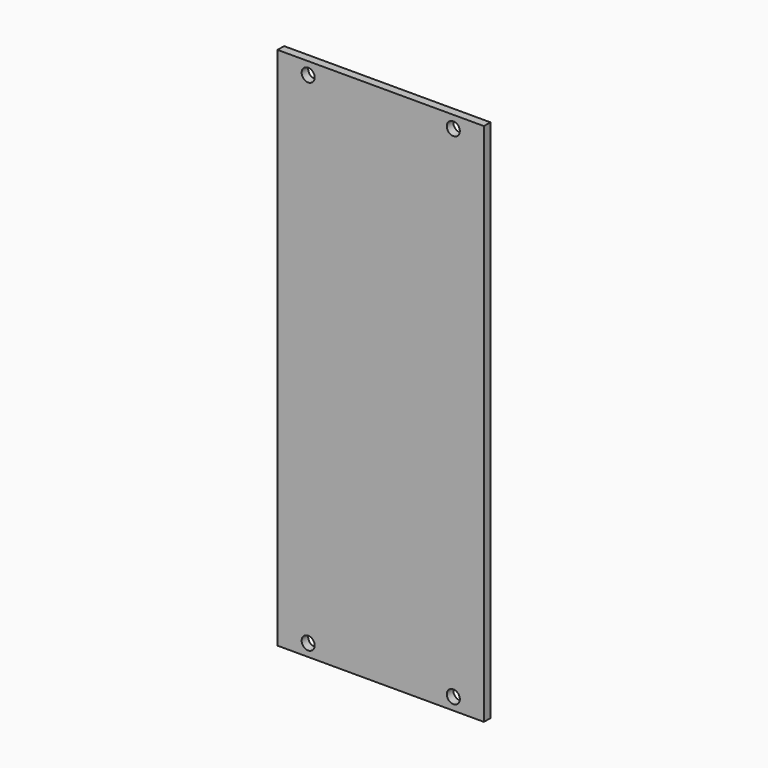
from build123d import *

# Parameters (mm, degrees)
SKETCH_W  = 50.56
SKETCH_H  = 128.5
SKETCH_R  = 1.6
PAD_DEPTH = 2


with BuildPart() as part:
    # Sketch → Pad (new body)
    with BuildSketch(Plane.XZ):
        Rectangle(SKETCH_W, SKETCH_H)
        with Locations((-17.78, 61.25)):
            Circle(SKETCH_R, mode=Mode.SUBTRACT)
        with Locations((17.78, 61.25)):
            Circle(SKETCH_R, mode=Mode.SUBTRACT)
        with Locations((17.78, -61.25)):
            Circle(SKETCH_R, mode=Mode.SUBTRACT)
        with Locations((-17.78, -61.25)):
            Circle(SKETCH_R, mode=Mode.SUBTRACT)
    extrude(amount=PAD_DEPTH)


solid = part.part
